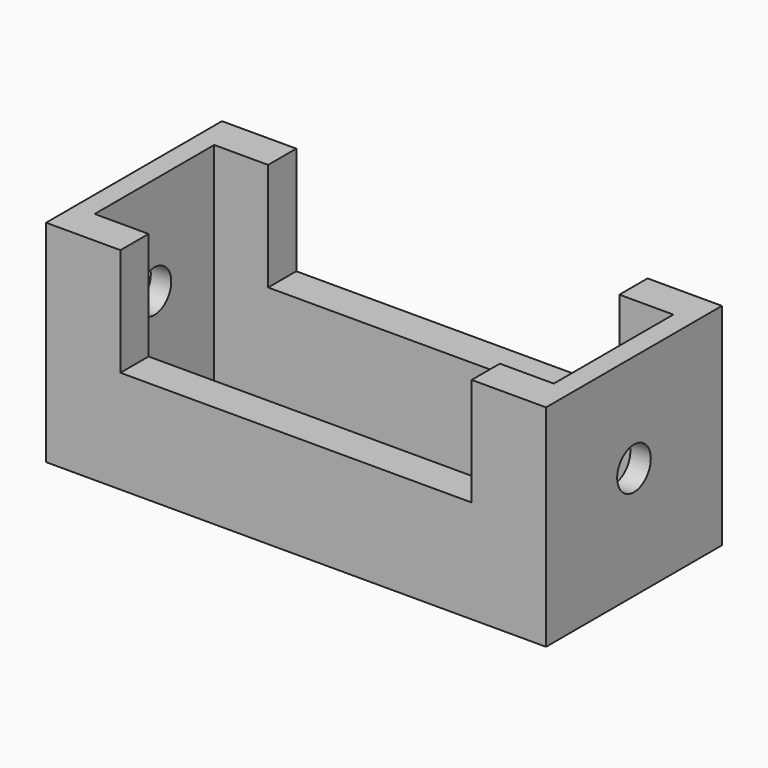
from build123d import *

# Parameters (mm, degrees)
F0_W     = 152.400016
F0_H     = 67.016922
F0_W_2   = 139.953076
F0_H_2   = 45.552332
F1_DEPTH = 64.262
F2_W     = 107.070766
F2_H     = 32.902767
F3_DEPTH = 90.17
F4_R     = 6.400152
F5_DEPTH = 169.926


with BuildPart() as f1:
    # F0 (on Top) → F1 (new body)
    with BuildSketch(Plane.XY):
        Rectangle(F0_W, F0_H)
        Rectangle(F0_W_2, F0_H_2, mode=Mode.SUBTRACT)
    extrude(amount=F1_DEPTH)

    # F2 (on face) → F3 (cut)
    with BuildSketch(Plane.XZ.offset(33.508461)):
        with Locations((0, 47.810617)):
            Rectangle(F2_W, F2_H)
    extrude(amount=-F3_DEPTH, mode=Mode.SUBTRACT)

    # F4 (on face) → F5 (cut)
    with BuildSketch(Plane.YZ.offset(76.200008)):
        with Locations((0, 34.290001)):
            Circle(F4_R)
    extrude(amount=-F5_DEPTH, mode=Mode.SUBTRACT)


solid = f1.part
